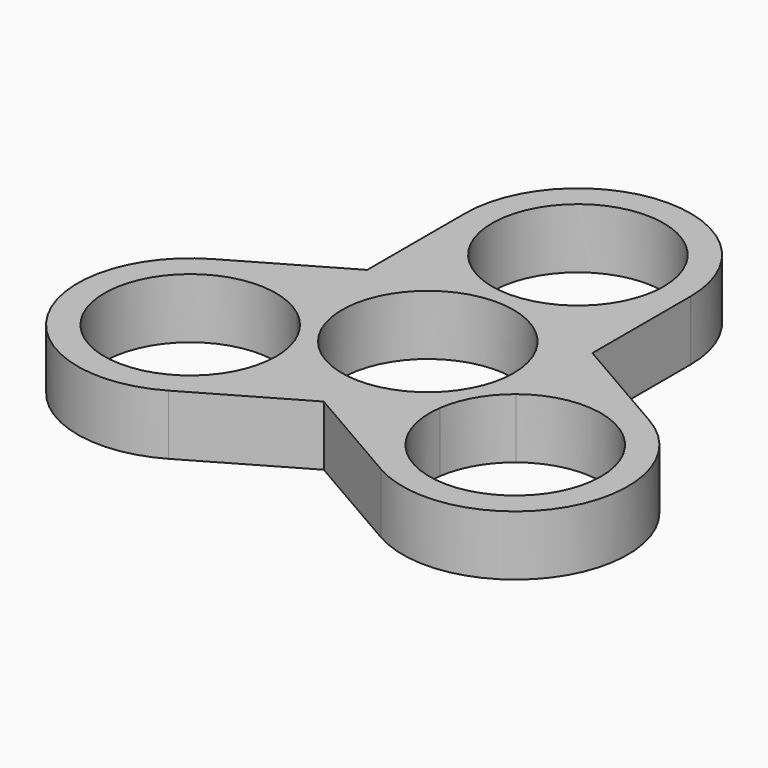
from build123d import *

# Parameters (mm, degrees)
F0_R     = 11.425
F1_DEPTH = 8


with BuildPart() as f1:
    # F0 (on Top) → F1 (new body)
    with BuildSketch(Plane.XY):
        with BuildLine():
            ThreePointArc((-50.2454332161, 2.5664754466), (-52.4174873095, 22.6356659226), (-34.5842170537, 13.1770879466))
            ThreePointArc((-34.5842170537, 13.1770879466), (-36.5506390777, 6.7688176907), (-41.7730008912, 2.5664754466))
            ThreePointArc((-41.7730008912, 2.5664754466), (-40.0995641696, 1.963893334), (-38.5092170537, 1.1674690033))
            Line((-38.5092170537, 1.1674690033), (-31.0092170537, -3.1626580156))
            Line((-31.0092170537, -3.1626580156), (-31.0092170537, 13.1770879466))
            ThreePointArc((-31.0092170537, 13.1770879466), (-46.0092170537, 28.1770879466), (-61.0092170537, 13.1770879466))
            Line((-61.0092170537, 13.1770879466), (-61.0092170537, -3.1626580156))
            Line((-61.0092170537, -3.1626580156), (-53.5092170537, 1.1674690033))
            ThreePointArc((-53.5092170537, 1.1674690033), (-51.9188699377, 1.963893334), (-50.2454332161, 2.5664754466))
        make_face()
        with BuildLine():
            ThreePointArc((-61.0092170537, -11.8229120534), (-58.9995981104, -4.3229120534), (-53.5092170537, 1.1674690033))
            Line((-53.5092170537, 1.1674690033), (-61.0092170537, -3.1626580156))
            Line((-61.0092170537, -3.1626580156), (-61.0092170537, -11.8229120534))
        make_face()
        with BuildLine():
            Line((-31.0092170537, -3.1626580156), (-38.5092170537, 1.1674690033))
            ThreePointArc((-38.5092170537, 1.1674690033), (-33.0188359969, -4.3229120534), (-31.0092170537, -11.8229120534))
            Line((-31.0092170537, -11.8229120534), (-31.0092170537, -3.1626580156))
        make_face()
        with BuildLine():
            Line((-61.0092170537, -11.8229120534), (-61.0092170537, -3.1626580156))
            Line((-61.0092170537, -3.1626580156), (-75.1598521483, -11.3325309967))
            ThreePointArc((-75.1598521483, -11.3325309967), (-80.650233205, -31.8229120534), (-60.1598521483, -37.3132931102))
            Line((-60.1598521483, -37.3132931102), (-46.0092170537, -29.1434201291))
            Line((-46.0092170537, -29.1434201291), (-53.5092170537, -24.8132931102))
            ThreePointArc((-53.5092170537, -24.8132931102), (-54.9941143142, -23.8342242723), (-56.3526840923, -22.686276616))
            ThreePointArc((-56.3526840923, -22.686276616), (-56.2643482095, -23.5024762055), (-56.2348521483, -24.3229120534))
            ThreePointArc((-56.2348521483, -24.3229120534), (-77.9388659721, -29.3101457364), (-60.5889002548, -15.3489349908))
            ThreePointArc((-60.5889002548, -15.3489349908), (-60.9037671982, -13.598405222), (-61.0092170537, -11.8229120534))
        make_face()
        with BuildLine():
            Line((-31.0092170537, -3.1626580156), (-31.0092170537, -11.8229120534))
            ThreePointArc((-31.0092170537, -11.8229120534), (-31.1146669091, -13.598405222), (-31.4295338525, -15.3489349908))
            ThreePointArc((-31.4295338525, -15.3489349908), (-19.3713482761, -14.0438982295), (-12.933581959, -24.3229120534))
            ThreePointArc((-12.933581959, -24.3229120534), (-25.1790178069, -35.7184159922), (-35.665750015, -22.686276616))
            ThreePointArc((-35.665750015, -22.686276616), (-37.0243197932, -23.8342242723), (-38.5092170537, -24.8132931102))
            Line((-38.5092170537, -24.8132931102), (-46.0092170537, -29.1434201291))
            Line((-46.0092170537, -29.1434201291), (-31.858581959, -37.3132931102))
            ThreePointArc((-31.858581959, -37.3132931102), (-11.3682009023, -31.8229120534), (-16.858581959, -11.3325309967))
            Line((-16.858581959, -11.3325309967), (-31.0092170537, -3.1626580156))
        make_face()
        with BuildLine():
            Line((-53.5092170537, -24.8132931102), (-46.0092170537, -29.1434201291))
            Line((-46.0092170537, -29.1434201291), (-38.5092170537, -24.8132931102))
            ThreePointArc((-38.5092170537, -24.8132931102), (-46.0092170537, -26.8229120534), (-53.5092170537, -24.8132931102))
        make_face()
        with BuildLine():
            ThreePointArc((-41.7730008912, 2.5664754466), (-46.0092170537, 1.7520879466), (-50.2454332161, 2.5664754466))
            ThreePointArc((-50.2454332161, 2.5664754466), (-51.9188699377, 1.963893334), (-53.5092170537, 1.1674690033))
            ThreePointArc((-53.5092170537, 1.1674690033), (-58.9995981104, -4.3229120534), (-61.0092170537, -11.8229120534))
            ThreePointArc((-61.0092170537, -11.8229120534), (-60.9037671982, -13.598405222), (-60.5889002548, -15.3489349908))
            ThreePointArc((-60.5889002548, -15.3489349908), (-57.76551191, -18.6104120534), (-56.3526840923, -22.686276616))
            ThreePointArc((-56.3526840923, -22.686276616), (-54.9941143142, -23.8342242723), (-53.5092170537, -24.8132931102))
            ThreePointArc((-53.5092170537, -24.8132931102), (-46.0092170537, -26.8229120534), (-38.5092170537, -24.8132931102))
            ThreePointArc((-38.5092170537, -24.8132931102), (-37.0243197932, -23.8342242723), (-35.665750015, -22.686276616))
            ThreePointArc((-35.665750015, -22.686276616), (-34.2529221973, -18.6104120534), (-31.4295338525, -15.3489349908))
            ThreePointArc((-31.4295338525, -15.3489349908), (-31.1146669091, -13.598405222), (-31.0092170537, -11.8229120534))
            ThreePointArc((-31.0092170537, -11.8229120534), (-33.0188359969, -4.3229120534), (-38.5092170537, 1.1674690033))
            ThreePointArc((-38.5092170537, 1.1674690033), (-40.0995641696, 1.963893334), (-41.7730008912, 2.5664754466))
        make_face()
        with Locations((-46.0092170537, -11.8229120534)):
            Circle(F0_R, mode=Mode.SUBTRACT)
    extrude(amount=F1_DEPTH)


solid = f1.part
